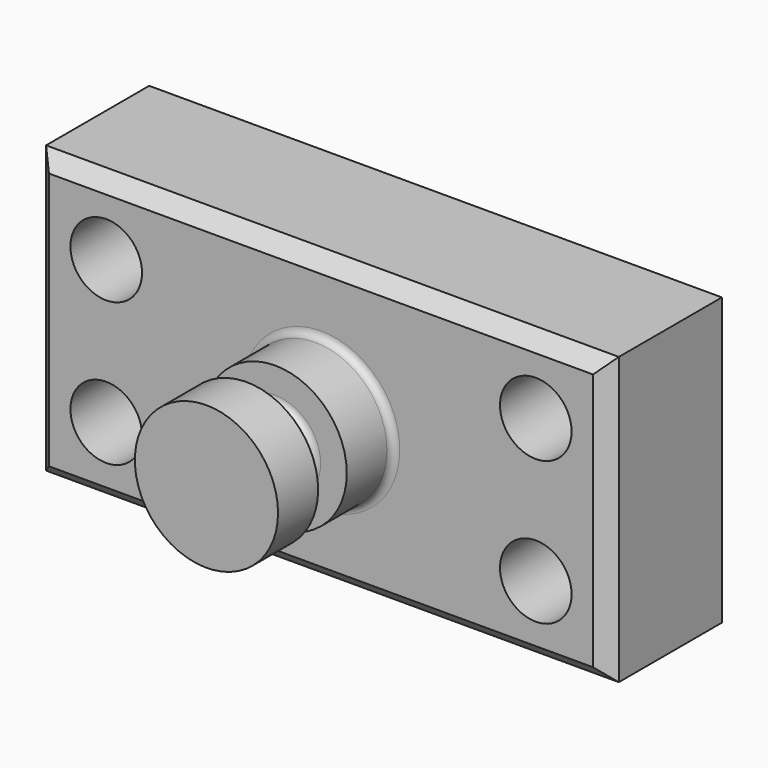
from build123d import *

# Parameters (mm, degrees)
F0_W     = 101.6
F0_H     = 50.8
F1_DEPTH = 25.4
F2_R     = 6.35
F3_DEPTH = 25.401
F4_W     = 12.7
F4_H     = 25.4
F6_W     = 10.16
F6_H     = 6.35
F8_R     = 1.27
F9_SIZE  = 2.54


with BuildPart() as f1:
    # F0 (on Front) → F1 (new body)
    with BuildSketch(Plane.XZ):
        Rectangle(F0_W, F0_H)
    extrude(amount=F1_DEPTH)

    # F2 (on face) → F3 (cut, through all)
    with BuildSketch(Plane.XZ.offset(25.4)):
        with Locations((-38.1, 12.7)):
            Circle(F2_R)
        with Locations((-38.1, -12.7)):
            Circle(F2_R)
        with Locations((38.1, 12.7)):
            Circle(F2_R)
        with Locations((38.1, -12.7)):
            Circle(F2_R)
    extrude(amount=-F3_DEPTH, mode=Mode.SUBTRACT)

    # F4 (on Top) → F5 (revolve)
    with BuildSketch(Plane.XY):
        with Locations((6.35, -38.1)):
            Rectangle(F4_W, F4_H)
    revolve(axis=Axis((0, -38.1, 0), (0, 1, 0)))

    # F6 (on Top) → F7 (revolve, cut)
    with BuildSketch(Plane.XY):
        with Locations((11.866805, -38.735)):
            Rectangle(F6_W, F6_H)
    revolve(axis=Axis((0, -36.219459, 0), (0, -1, 0)), mode=Mode.SUBTRACT)

    # F8
    f8_edges = [f1.edges().sort_by_distance(p)[0] for p in [
        (-12.7, -25.4, 0),
        (-6.786805, -41.91, 0),
        (-6.786805, -35.56, 0),
    ]]
    fillet(f8_edges, radius=F8_R)

    # F9
    f9_edges = [f1.edges().sort_by_distance(p)[0] for p in [
        (0, -25.4, -25.4),
        (0, -25.4, 25.4),
        (-50.8, -25.4, 0),
        (50.8, -25.4, 0),
    ]]
    chamfer(f9_edges, length=F9_SIZE)


solid = f1.part
